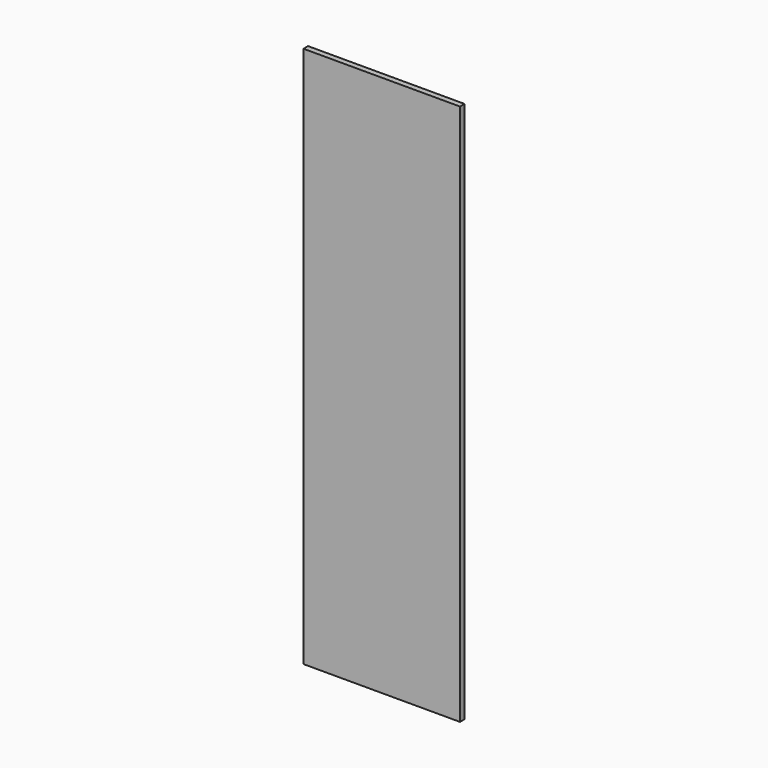
from build123d import *

# Parameters (mm, degrees)
F0_W     = 520
F0_H     = 1800
F1_DEPTH = 19
F2_R     = 2.5
F3_DEPTH = 14


with BuildPart() as f1:
    # F0 (on Front) → F1 (new body)
    with BuildSketch(Plane.XZ):
        Rectangle(F0_W, F0_H)
    extrude(amount=F1_DEPTH)

    # F2 (on face) → F3 (cut)
    with BuildSketch(Plane(origin=(0, 0, 0), x_dir=(-1, 0, 0), z_dir=(0, 1, 0))):
        with Locations((-203, 840)):
            Circle(F2_R)
        with Locations((-203, 808)):
            Circle(F2_R)
        with Locations((-203, 776)):
            Circle(F2_R)
        with Locations((-203, 744)):
            Circle(F2_R)
        with Locations((-203, 712)):
            Circle(F2_R)
        with Locations((-203, 680)):
            Circle(F2_R)
        with Locations((-203, 648)):
            Circle(F2_R)
        with Locations((-203, 616)):
            Circle(F2_R)
        with Locations((-203, 584)):
            Circle(F2_R)
        with Locations((-203, 552)):
            Circle(F2_R)
        with Locations((-203, 520)):
            Circle(F2_R)
        with Locations((-203, 488)):
            Circle(F2_R)
        with Locations((-203, 456)):
            Circle(F2_R)
        with Locations((-203, 424)):
            Circle(F2_R)
        with Locations((-203, 392)):
            Circle(F2_R)
        with Locations((-203, 360)):
            Circle(F2_R)
        with Locations((-203, 328)):
            Circle(F2_R)
        with Locations((-203, 296)):
            Circle(F2_R)
        with Locations((-203, 264)):
            Circle(F2_R)
        with Locations((-203, 232)):
            Circle(F2_R)
        with Locations((-203, 200)):
            Circle(F2_R)
        with Locations((-203, 168)):
            Circle(F2_R)
        with Locations((-203, 136)):
            Circle(F2_R)
        with Locations((-203, 104)):
            Circle(F2_R)
        with Locations((-203, 72)):
            Circle(F2_R)
        with Locations((-203, 40)):
            Circle(F2_R)
        with Locations((-203, 8)):
            Circle(F2_R)
        with Locations((-203, -24)):
            Circle(F2_R)
        with Locations((-203, -56)):
            Circle(F2_R)
        with Locations((-203, -88)):
            Circle(F2_R)
        with Locations((-203, -120)):
            Circle(F2_R)
        with Locations((-203, -152)):
            Circle(F2_R)
        with Locations((-203, -184)):
            Circle(F2_R)
        with Locations((-203, -216)):
            Circle(F2_R)
        with Locations((-203, -248)):
            Circle(F2_R)
        with Locations((-203, -280)):
            Circle(F2_R)
        with Locations((-203, -312)):
            Circle(F2_R)
        with Locations((-203, -344)):
            Circle(F2_R)
        with Locations((-203, -376)):
            Circle(F2_R)
        with Locations((-203, -408)):
            Circle(F2_R)
        with Locations((-203, -440)):
            Circle(F2_R)
        with Locations((-203, -472)):
            Circle(F2_R)
        with Locations((-203, -504)):
            Circle(F2_R)
        with Locations((-203, -536)):
            Circle(F2_R)
        with Locations((-203, -568)):
            Circle(F2_R)
        with Locations((-203, -600)):
            Circle(F2_R)
        with Locations((-203, -632)):
            Circle(F2_R)
        with Locations((-203, -664)):
            Circle(F2_R)
        with Locations((-203, -696)):
            Circle(F2_R)
        with Locations((-203, -728)):
            Circle(F2_R)
        with Locations((203, 840)):
            Circle(F2_R)
        with Locations((203, 808)):
            Circle(F2_R)
        with Locations((203, 776)):
            Circle(F2_R)
        with Locations((203, 744)):
            Circle(F2_R)
        with Locations((203, 712)):
            Circle(F2_R)
        with Locations((203, 680)):
            Circle(F2_R)
        with Locations((203, 648)):
            Circle(F2_R)
        with Locations((203, 616)):
            Circle(F2_R)
        with Locations((203, 584)):
            Circle(F2_R)
        with Locations((203, 552)):
            Circle(F2_R)
        with Locations((203, 520)):
            Circle(F2_R)
        with Locations((203, 488)):
            Circle(F2_R)
        with Locations((203, 456)):
            Circle(F2_R)
        with Locations((203, 424)):
            Circle(F2_R)
        with Locations((203, 392)):
            Circle(F2_R)
        with Locations((203, 360)):
            Circle(F2_R)
        with Locations((203, 328)):
            Circle(F2_R)
        with Locations((203, 296)):
            Circle(F2_R)
        with Locations((203, 264)):
            Circle(F2_R)
        with Locations((203, 232)):
            Circle(F2_R)
        with Locations((203, 200)):
            Circle(F2_R)
        with Locations((203, 168)):
            Circle(F2_R)
        with Locations((203, 136)):
            Circle(F2_R)
        with Locations((203, 104)):
            Circle(F2_R)
        with Locations((203, 72)):
            Circle(F2_R)
        with Locations((203, 40)):
            Circle(F2_R)
        with Locations((203, 8)):
            Circle(F2_R)
        with Locations((203, -24)):
            Circle(F2_R)
        with Locations((203, -56)):
            Circle(F2_R)
        with Locations((203, -88)):
            Circle(F2_R)
        with Locations((203, -120)):
            Circle(F2_R)
        with Locations((203, -152)):
            Circle(F2_R)
        with Locations((203, -184)):
            Circle(F2_R)
        with Locations((203, -216)):
            Circle(F2_R)
        with Locations((203, -248)):
            Circle(F2_R)
        with Locations((203, -280)):
            Circle(F2_R)
        with Locations((203, -312)):
            Circle(F2_R)
        with Locations((203, -344)):
            Circle(F2_R)
        with Locations((203, -376)):
            Circle(F2_R)
        with Locations((203, -408)):
            Circle(F2_R)
        with Locations((203, -440)):
            Circle(F2_R)
        with Locations((203, -472)):
            Circle(F2_R)
        with Locations((203, -504)):
            Circle(F2_R)
        with Locations((203, -536)):
            Circle(F2_R)
        with Locations((203, -568)):
            Circle(F2_R)
        with Locations((203, -600)):
            Circle(F2_R)
        with Locations((203, -632)):
            Circle(F2_R)
        with Locations((203, -664)):
            Circle(F2_R)
        with Locations((203, -696)):
            Circle(F2_R)
        with Locations((203, -728)):
            Circle(F2_R)
        with Locations((-203, -760)):
            Circle(F2_R)
        with Locations((-203, -792)):
            Circle(F2_R)
        with Locations((-203, -824)):
            Circle(F2_R)
        with Locations((203, -760)):
            Circle(F2_R)
        with Locations((203, -792)):
            Circle(F2_R)
        with Locations((203, -824)):
            Circle(F2_R)
    extrude(amount=-F3_DEPTH, mode=Mode.SUBTRACT)


solid = f1.part
